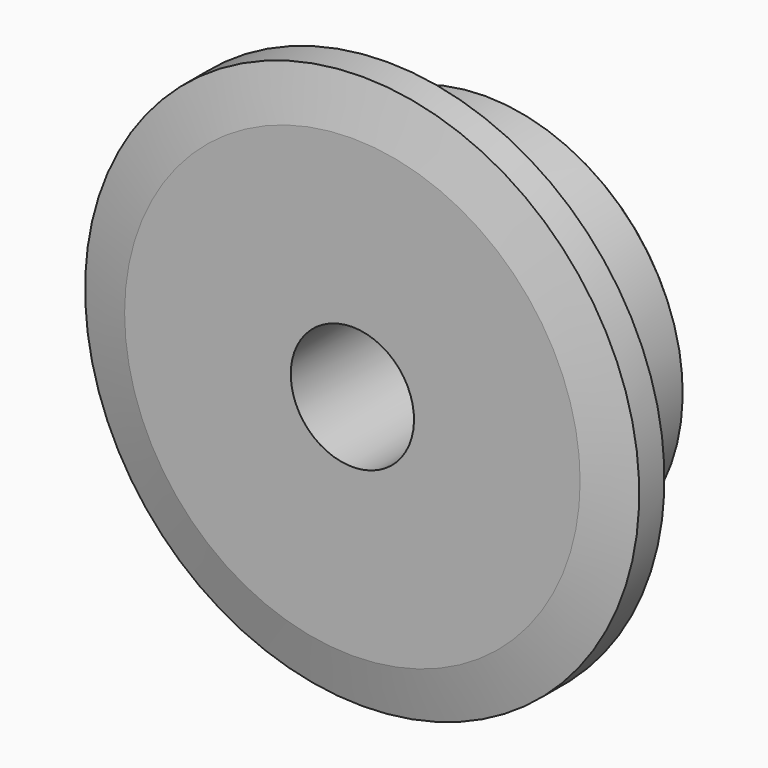
from build123d import *

# Parameters (mm, degrees)
F0_W     = 7.2136
F0_H     = 10.287
F0_H_2   = 17.4625
F0_W_2   = 15.0114
F2_R     = 1.5875
F3_SIZE  = 0.79375
F4_SIZE2 = 6.35
F4_SIZE  = 1.5748


with BuildPart() as f1:
    # F0 (on Right) → F1 (revolve)
    with BuildSketch(Plane.YZ):
        with Locations((3.6068, 30.5435)):
            Rectangle(F0_W, F0_H)
        with Locations((3.6068, 16.66875)):
            Rectangle(F0_W, F0_H_2)
        with Locations((14.7193, 16.66875)):
            Rectangle(F0_W_2, F0_H_2)
    revolve(axis=Axis((0, 11.1125, 0), (0, -1, 0)))

    # F2
    f2_edges = [f1.edges().sort_by_distance(p)[0] for p in [
        (0, 7.2136, -25.4),
    ]]
    fillet(f2_edges, radius=F2_R)

    # F3
    f3_edges = [f1.edges().sort_by_distance(p)[0] for p in [
        (0, 22.225, -25.4),
    ]]
    chamfer(f3_edges, length=F3_SIZE)

    # F4
    f4_edges = [f1.edges().sort_by_distance(p)[0] for p in [
        (0, 7.2136, -35.687),
        (0, 0, -35.687),
    ]]
    f4_side = f1.faces().sort_by_distance((0, 3.6068, -35.687))[0]
    chamfer(f4_edges, length=F4_SIZE, length2=F4_SIZE2, reference=f4_side)


solid = f1.part
